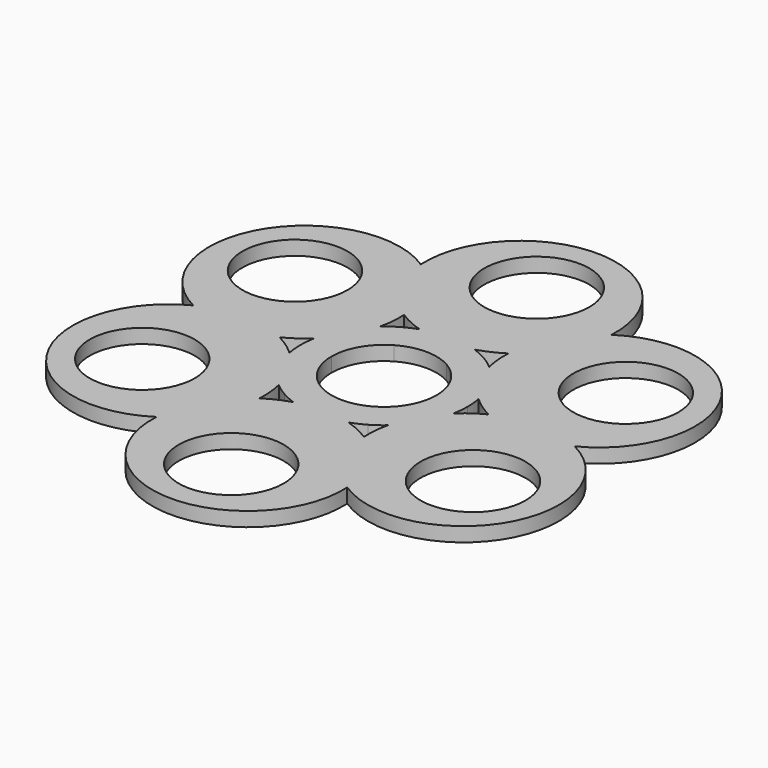
from build123d import *

# Parameters (mm, degrees)
F0_R     = 11
F1_DEPTH = 3


with BuildPart() as f1:
    # F0 (on Top) → F1 (new body)
    with BuildSketch(Plane.XY):
        with BuildLine():
            ThreePointArc((39.940735, 0), (48.218565, 27.839001), (19.970367, 34.589691))
            ThreePointArc((19.970367, 34.589691), (0, 55.678003), (-19.970367, 34.589691))
            ThreePointArc((-19.970367, 34.589691), (-48.218565, 27.839001), (-39.940735, 0))
            ThreePointArc((-39.940735, 0), (-48.218565, -27.839001), (-19.970367, -34.589691))
            ThreePointArc((-19.970367, -34.589691), (0, -55.678003), (19.970367, -34.589691))
            ThreePointArc((19.970367, -34.589691), (48.218565, -27.839001), (39.940735, 0))
        make_face()
        with Locations((0, -40)):
            Circle(F0_R, mode=Mode.SUBTRACT)
        with Locations((-34.641016, -20)):
            Circle(F0_R, mode=Mode.SUBTRACT)
        with BuildLine():
            ThreePointArc((-5.759242, -16.525167), (-8.429472, -17.541189), (-10.927689, -18.927313))
            ThreePointArc((-10.927689, -18.927313), (-10.97638, -16.070731), (-11.431593, -13.250233))
            ThreePointArc((-11.431593, -13.250233), (-10.135662, -14.265986), (-8.75, -15.155445))
            ThreePointArc((-8.75, -15.155445), (-7.286876, -15.910734), (-5.759242, -16.525167))
        make_face(mode=Mode.SUBTRACT)
        with BuildLine():
            ThreePointArc((11.431593, -13.250233), (10.97638, -16.070731), (10.927689, -18.927313))
            ThreePointArc((10.927689, -18.927313), (8.429472, -17.541189), (5.759242, -16.525167))
            ThreePointArc((5.759242, -16.525167), (7.286876, -15.910734), (8.75, -15.155445))
            ThreePointArc((8.75, -15.155445), (10.135662, -14.265986), (11.431593, -13.250233))
        make_face(mode=Mode.SUBTRACT)
        with BuildLine():
            ThreePointArc((17.190835, 3.274934), (19.405852, 1.470458), (21.855379, 0))
            ThreePointArc((21.855379, 0), (19.405852, -1.470458), (17.190835, -3.274934))
            ThreePointArc((17.190835, -3.274934), (17.422537, -1.644747), (17.5, 0))
            ThreePointArc((17.5, 0), (17.422537, 1.644747), (17.190835, 3.274934))
        make_face(mode=Mode.SUBTRACT)
        with Locations((34.641016, -20)):
            Circle(F0_R, mode=Mode.SUBTRACT)
        with Locations((-34.641016, 20)):
            Circle(F0_R, mode=Mode.SUBTRACT)
        with BuildLine():
            ThreePointArc((-17.190835, -3.274934), (-19.405852, -1.470458), (-21.855379, 0))
            ThreePointArc((-21.855379, 0), (-19.405852, 1.470458), (-17.190835, 3.274934))
            ThreePointArc((-17.190835, 3.274934), (-17.422537, 1.644747), (-17.5, 0))
            ThreePointArc((-17.5, 0), (-17.422537, -1.644747), (-17.190835, -3.274934))
        make_face(mode=Mode.SUBTRACT)
        with BuildLine():
            ThreePointArc((-5.5, 9.526279), (0, 11), (5.5, 9.526279))
            ThreePointArc((5.5, 9.526279), (9.526279, 5.5), (11, 0))
            ThreePointArc((11, 0), (9.526279, -5.5), (5.5, -9.526279))
            ThreePointArc((5.5, -9.526279), (0, -11), (-5.5, -9.526279))
            ThreePointArc((-5.5, -9.526279), (-9.526279, -5.5), (-11, 0))
            ThreePointArc((-11, 0), (-9.526279, 5.5), (-5.5, 9.526279))
        make_face(mode=Mode.SUBTRACT)
        with BuildLine():
            ThreePointArc((-10.927689, 18.927313), (-8.429472, 17.541189), (-5.759242, 16.525167))
            ThreePointArc((-5.759242, 16.525167), (-7.286876, 15.910734), (-8.75, 15.155445))
            ThreePointArc((-8.75, 15.155445), (-10.135662, 14.265986), (-11.431593, 13.250233))
            ThreePointArc((-11.431593, 13.250233), (-10.97638, 16.070731), (-10.927689, 18.927313))
        make_face(mode=Mode.SUBTRACT)
        with Locations((0, 40)):
            Circle(F0_R, mode=Mode.SUBTRACT)
        with BuildLine():
            ThreePointArc((8.75, 15.155445), (7.286876, 15.910734), (5.759242, 16.525167))
            ThreePointArc((5.759242, 16.525167), (8.429472, 17.541189), (10.927689, 18.927313))
            ThreePointArc((10.927689, 18.927313), (10.97638, 16.070731), (11.431593, 13.250233))
            ThreePointArc((11.431593, 13.250233), (10.135662, 14.265986), (8.75, 15.155445))
        make_face(mode=Mode.SUBTRACT)
        with Locations((34.641016, 20)):
            Circle(F0_R, mode=Mode.SUBTRACT)
    extrude(amount=F1_DEPTH)


solid = f1.part
